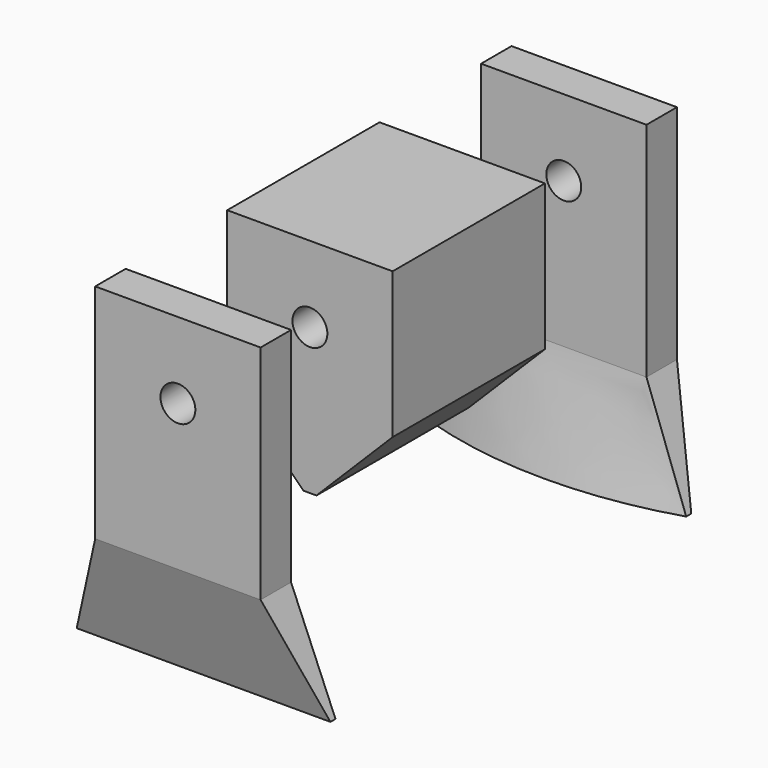
from build123d import *

# Parameters (mm, degrees)
FACEBINDER_W                                        = 6
FACEBINDER_H                                        = 26.06345
SKETCH005_AS_DRAWN_R                                = 2.75
EXTRUDE_SKETCH005001_DEPTH                          = 90
EXTRUDE_SKETCH005001_ONTO_SKETCH005_ROLL_ANGLE      = 90
EXTRUDE_SKETCH005001_ONTO_SKETCH005_PLACEMENT_ANGLE = 180
SKETCH004_W                                         = 26.06345
SKETCH004_H                                         = 6
SKETCH004_H_2                                       = 30
EXTRUDE_SKETCH004_DEPTH                             = 35
CHAMFER_SIZE                                        = 12


with BuildPart() as loft_body:
    # Facebinder → Loft section 0
    with BuildSketch(Plane(origin=(90, 32, 31), x_dir=(0, -1, 0), z_dir=(0, 0, -1))):
        Rectangle(FACEBINDER_W, FACEBINDER_H)
    # Sketch006 → Loft section 1
    with BuildSketch(Plane(origin=(0, 0, 14), x_dir=(1, 0, 0), z_dir=(0, 0, -1))):
        with BuildLine():
            ThreePointArc((69.685404, -35.467912), (89.673813, -38.497232), (109.662222, -35.467912))
            Line((109.662222, -35.467912), (109.662222, -34.467912))
            Line((109.662222, -34.467912), (69.685404, -34.467912))
            Line((69.685404, -34.467912), (69.685404, -35.467912))
        make_face()
    loft()


with BuildPart() as part_mirroring:
    # Part__Mirroring: instance of Loft body
    add(loft_body.part.mirror(Plane(origin=(0, 0, 0), x_dir=(1, 0, 0), z_dir=(0, 1, 0))))


with BuildPart() as part_mirroring_1:
    # Part__Mirroring placement: moved
    add(part_mirroring.part.moved(Location((0, 140, 0))))


with BuildPart() as fusion001:
    # Fusion001 base: copy of Loft body
    add(loft_body.part)

    # Fusion001: union Part__Mirroring
    add(part_mirroring_1.part)


with BuildPart() as sketch005_extrude001:
    # Sketch005 as drawn → Extrude_Sketch005001 (new)
    with BuildSketch(Plane.XY):
        with Locations((-90, 54)):
            Circle(SKETCH005_AS_DRAWN_R)
    extrude(amount=-EXTRUDE_SKETCH005001_DEPTH)


with BuildPart() as sketch005_extrude001_1:
    # Extrude_Sketch005001 onto Sketch005 roll: moved
    add(sketch005_extrude001.part.rotate(Axis((0, 0, 0), (1, 0, 0)), EXTRUDE_SKETCH005001_ONTO_SKETCH005_ROLL_ANGLE))


with BuildPart() as sketch005_extrude001_2:
    # Extrude_Sketch005001 onto Sketch005 placement: moved
    add(sketch005_extrude001_1.part.moved(Location((0, 111, 0))).rotate(Axis((0, 111, 0), (0, 0, 1)), EXTRUDE_SKETCH005001_ONTO_SKETCH005_PLACEMENT_ANGLE))


with BuildPart() as chamfer_body:
    # Sketch004 → Extrude_Sketch004 (new body)
    with BuildSketch(Plane(origin=(0, 0, 66), x_dir=(1, 0, 0), z_dir=(0, 0, -1))):
        with Locations((90, -108)):
            Rectangle(SKETCH004_W, SKETCH004_H)
        with Locations((90, -70)):
            Rectangle(SKETCH004_W, SKETCH004_H_2)
        with Locations((90, -32)):
            Rectangle(SKETCH004_W, SKETCH004_H)
    extrude(amount=EXTRUDE_SKETCH004_DEPTH)

    # Cut002: cut Sketch005_Extrude001
    add(sketch005_extrude001_2.part, mode=Mode.SUBTRACT)

    # Fusion002: union Fusion001
    add(fusion001.part)

    # Chamfer
    chamfer_edges = [chamfer_body.edges().sort_by_distance(p)[0] for p in [
        (103.031725, 70, 31),
        (76.968275, 70, 31),
    ]]
    chamfer(chamfer_edges, length=CHAMFER_SIZE)


solid = chamfer_body.part
